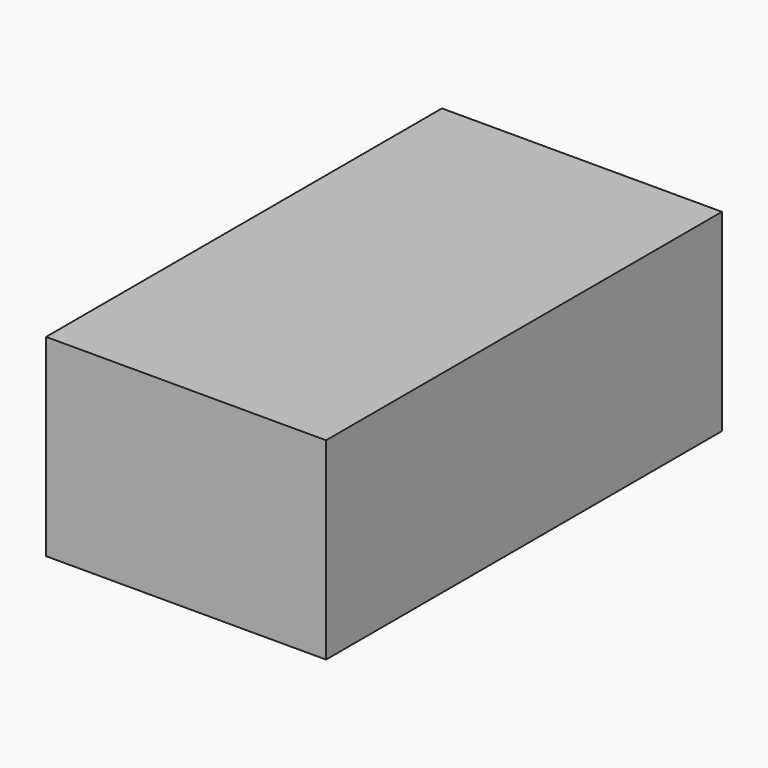
from build123d import *

# Parameters (mm, degrees)
F0_W     = 294.64
F0_H     = 203.2
F1_DEPTH = 520.7
F2_DEPTH = 69.85


with BuildPart() as f1:
    # F0 (on Front) → F1 (new body)
    with BuildSketch(Plane.XZ):
        Rectangle(F0_W, F0_H)
    extrude(amount=F1_DEPTH)

    # F0 (on Front) → F2 (join)
    with BuildSketch(Plane.XZ):
        Rectangle(F0_W, F0_H)
    extrude(amount=F2_DEPTH)


solid = f1.part
